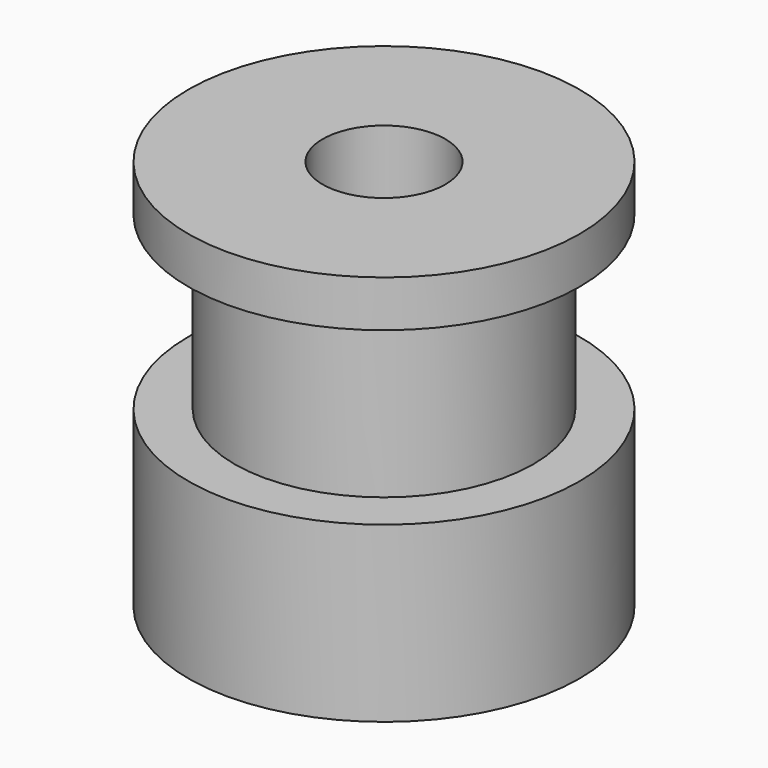
from build123d import *


with BuildPart() as part:
    # Sketch → Revolution (revolve)
    with BuildSketch(Plane.XZ):
        Polygon((2.51, 0), (2.51, 16), (8, 16), (8, 14.1), (6.11, 14.1), (6.11, 7.1), (8, 7.1), (8, 0), align=None)
    revolve(axis=Axis((0, 0, 0), (0, 0, 1)))


solid = part.part
